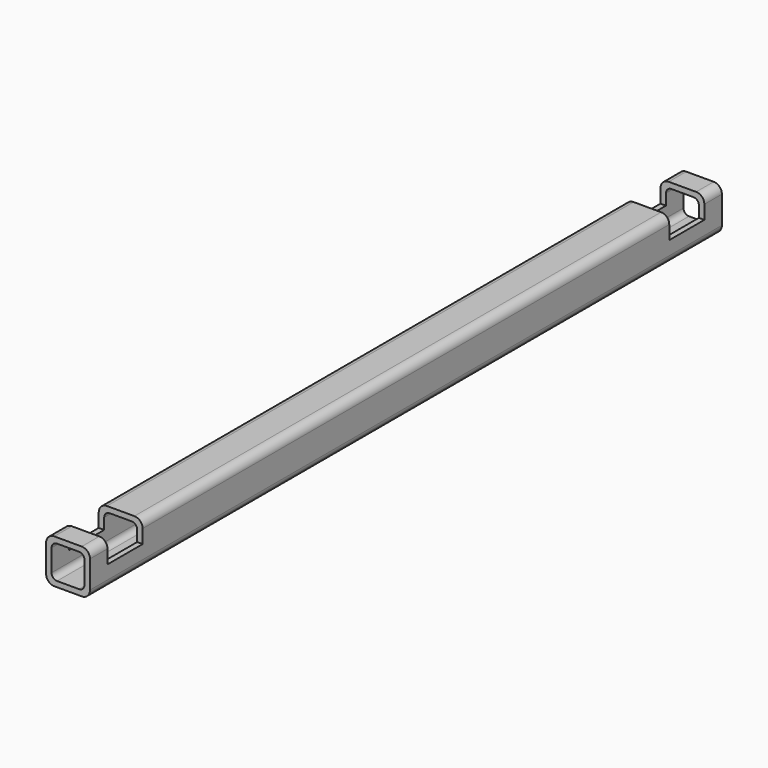
from build123d import *

# Parameters (mm, degrees)
F1_DEPTH      = 228.6
F2_W          = 12.7
F2_H          = 6.35
F3_DEPTH      = 11.938
F3_DEPTH_BACK = 25.4
F4_R          = 2.579688
F5_DEPTH      = 12.7


with BuildPart() as f1:
    # F0 (on Front) → F1 (new body)
    with BuildSketch(Plane.XZ):
        with BuildLine():
            ThreePointArc((10.071912, -2.38125), (9.37446, -0.697452), (7.690662, 0))
            Line((7.690662, 0), (-0.246838, 0))
            ThreePointArc((-0.246838, 0), (-1.930636, -0.697452), (-2.628088, -2.38125))
            Line((-2.628088, -2.38125), (-2.628088, -10.31875))
            ThreePointArc((-2.628088, -10.31875), (-1.930636, -12.002548), (-0.246838, -12.7))
            Line((-0.246838, -12.7), (7.690662, -12.7))
            ThreePointArc((7.690662, -12.7), (9.37446, -12.002548), (10.071912, -10.31875))
            Line((10.071912, -10.31875), (10.071912, -2.38125))
        make_face()
        with BuildLine():
            Line((0.546912, -1.5875), (6.896912, -1.5875))
            ThreePointArc((6.896912, -1.5875), (8.019444, -2.052468), (8.484412, -3.175))
            Line((8.484412, -3.175), (8.484412, -9.525))
            ThreePointArc((8.484412, -9.525), (8.019444, -10.647532), (6.896912, -11.1125))
            Line((6.896912, -11.1125), (0.546912, -11.1125))
            ThreePointArc((0.546912, -11.1125), (-0.57562, -10.647532), (-1.040588, -9.525))
            Line((-1.040588, -9.525), (-1.040588, -3.175))
            ThreePointArc((-1.040588, -3.175), (-0.57562, -2.052468), (0.546912, -1.5875))
        make_face(mode=Mode.SUBTRACT)
    extrude(amount=F1_DEPTH)

    # F2 (on Right) → F3 (cut, two sides)
    with BuildSketch(Plane.YZ) as f3_sk:
        with Locations((-215.9, -3.175)):
            Rectangle(F2_W, F2_H)
        with Locations((-12.7, -3.175)):
            Rectangle(F2_W, F2_H)
    extrude(amount=F3_DEPTH, mode=Mode.SUBTRACT)
    extrude(f3_sk.sketch, amount=-F3_DEPTH_BACK, mode=Mode.SUBTRACT)

    # F4 (on Top) → F5 (cut)
    with BuildSketch(Plane.XY):
        with Locations((3.721912, -12.7)):
            Circle(F4_R)
        with Locations((3.721912, -215.9)):
            Circle(F4_R)
    extrude(amount=-F5_DEPTH, mode=Mode.SUBTRACT)


solid = f1.part
